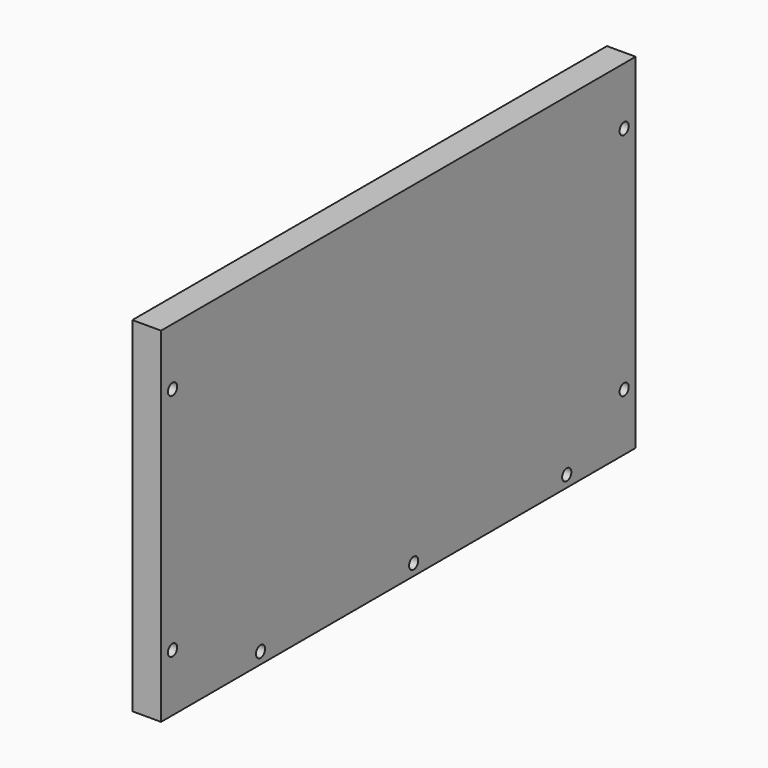
from build123d import *

# Parameters (mm, degrees)
F0_W     = 310
F0_H     = 180
F1_DEPTH = 15
F2_R     = 3
F3_DEPTH = 15.001


with BuildPart() as f1:
    # F0 (on Right) → F1 (new body)
    with BuildSketch(Plane.YZ):
        with Locations((155, 90)):
            Rectangle(F0_W, F0_H)
    extrude(amount=F1_DEPTH)

    # F2 (on face) → F3 (cut, through all)
    with BuildSketch(Plane.YZ.offset(15)):
        with Locations((7.5, 30)):
            Circle(F2_R)
        with Locations((7.5, 150)):
            Circle(F2_R)
        with Locations((302.5, 150)):
            Circle(F2_R)
        with Locations((302.5, 30)):
            Circle(F2_R)
        with Locations((65, 6)):
            Circle(F2_R)
        with Locations((165, 6)):
            Circle(F2_R)
        with Locations((265, 6)):
            Circle(F2_R)
    extrude(amount=-F3_DEPTH, mode=Mode.SUBTRACT)


solid = f1.part
